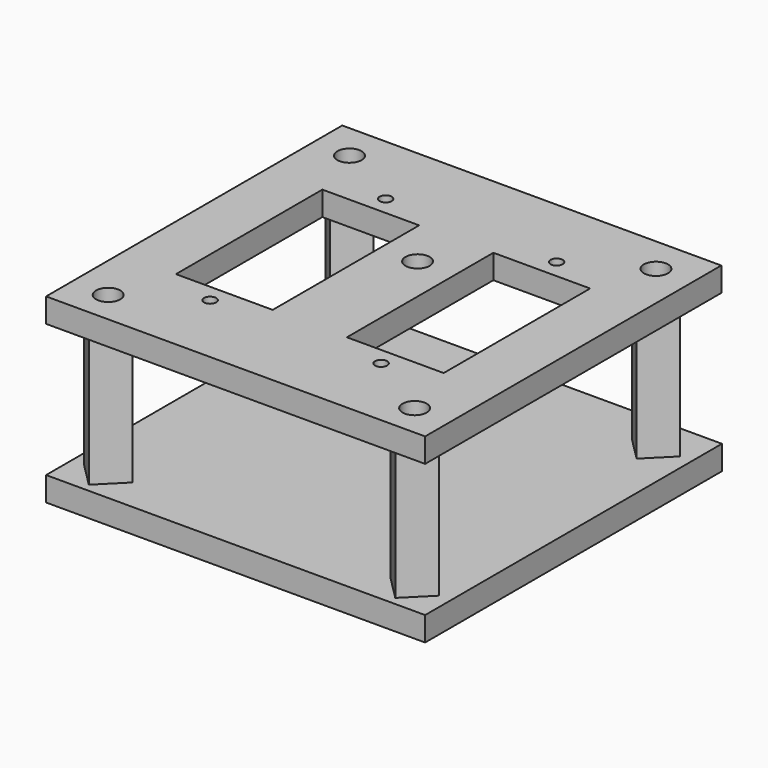
from build123d import *

# Parameters (mm, degrees)
CYLINDER003_R     = 1.5
CYLINDER003_DEPTH = 27
ARRAY002_X_COUNT  = 2
ARRAY002_X_PITCH  = 38
ARRAY002_Y_COUNT  = 2
ARRAY002_Y_PITCH  = 37.4
CYLINDER002_R     = 3
CYLINDER002_DEPTH = 10
PRISM_DEPTH       = 20
ARRAY003_X_COUNT  = 2
ARRAY003_X_PITCH  = 38
ARRAY003_Y_COUNT  = 2
ARRAY003_Y_PITCH  = 37.4
BOX001_W          = 47
BOX001_H          = 46
BOX001_DEPTH      = 3
CYLINDER006_R     = 0.75
CYLINDER006_DEPTH = 10
ARRAY006_X_COUNT  = 2
ARRAY006_X_PITCH  = 21.2
ARRAY006_Y_COUNT  = 2
ARRAY006_Y_PITCH  = 27.2
BOX003_W          = 12
BOX003_H          = 22.7
BOX003_DEPTH      = 10
ARRAY004_X_COUNT  = 2
ARRAY004_X_PITCH  = 21.2
CYLINDER004_R     = 1.5
CYLINDER004_DEPTH = 10
ARRAY005_X_COUNT  = 2
ARRAY005_X_PITCH  = 38
ARRAY005_Y_COUNT  = 2
ARRAY005_Y_PITCH  = 37.4
CYLINDER005_R     = 1.5
CYLINDER005_DEPTH = 10
BOX002_W          = 47
BOX002_H          = 45.9
BOX002_DEPTH      = 3


with BuildPart() as array002:
    # Cylinder003 → Cylinder003 (new body)
    with BuildSketch(Plane(origin=(7.75, 2.5, 0), x_dir=(1, 0, 0), z_dir=(0, 0, 1))):
        Circle(CYLINDER003_R)
    extrude(amount=CYLINDER003_DEPTH)

    # Array002 X: Array002 ×2


with BuildPart() as array002_1:
    add(array002.part)
    with Locations(*[(i * ARRAY002_X_PITCH, 0, 0) for i in range(1, ARRAY002_X_COUNT)]):
        add(array002.part)

    # Array002 Y: Array002 ×2


with BuildPart() as array002_2:
    add(array002_1.part)
    with Locations(*[(0, i * ARRAY002_Y_PITCH, 0) for i in range(1, ARRAY002_Y_COUNT)]):
        add(array002_1.part)


with BuildPart() as fusion002:
    # Cylinder002 → Cylinder002 (new body)
    with BuildSketch(Plane(origin=(26.75, 26.75, 0), x_dir=(1, 0, 0), z_dir=(0, 0, 1))):
        Circle(CYLINDER002_R)
    extrude(amount=CYLINDER002_DEPTH)

    # Fusion002: union Array002
    add(array002_2.part)


with BuildPart() as obj1:
    # Prism → Prism (new body)
    with BuildSketch(Plane(origin=(7.75, 2.5, 3), x_dir=(1, 0, 0), z_dir=(0, 0, 1))):
        Polygon((3, 0), (0, 3), (-3, 0), (0, -3), align=None)
    extrude(amount=PRISM_DEPTH)

    # Array003 X: obj1_2


with BuildPart() as obj1_1:
    add(obj1.part)
    with Locations(*[(i * ARRAY003_X_PITCH, 0, 0) for i in range(1, ARRAY003_X_COUNT)]):
        add(obj1.part)

    # Array003 Y: obj1_2


with BuildPart() as obj1_2:
    add(obj1_1.part)
    with Locations(*[(0, i * ARRAY003_Y_PITCH, 0) for i in range(1, ARRAY003_Y_COUNT)]):
        add(obj1_1.part)


with BuildPart() as top_plate_final:
    # Box001 → Box001 (new body)
    with BuildSketch(Plane(origin=(3.25, -1.5, 3), x_dir=(1, 0, 0), z_dir=(0, 0, 1))):
        with Locations((23.5, 23)):
            Rectangle(BOX001_W, BOX001_H)
    extrude(amount=BOX001_DEPTH)

    # Fusion001: union obj1
    add(obj1_2.part)

    # Cut001: cut Fusion002
    add(fusion002.part, mode=Mode.SUBTRACT)


with BuildPart() as array006:
    # Cylinder006 → Cylinder006 (new body)
    with BuildSketch(Plane(origin=(16.15, 7.8, 19.5), x_dir=(1, 0, 0), z_dir=(0, 0, 1))):
        Circle(CYLINDER006_R)
    extrude(amount=CYLINDER006_DEPTH)

    # Array006 X: Array006 ×2


with BuildPart() as array006_1:
    add(array006.part)
    with Locations(*[(i * ARRAY006_X_PITCH, 0, 0) for i in range(1, ARRAY006_X_COUNT)]):
        add(array006.part)

    # Array006 Y: Array006 ×2


with BuildPart() as array006_2:
    add(array006_1.part)
    with Locations(*[(0, i * ARRAY006_Y_PITCH, 0) for i in range(1, ARRAY006_Y_COUNT)]):
        add(array006_1.part)


with BuildPart() as array_taladro_servomotor:
    # Box003 → Box003 (new body)
    with BuildSketch(Plane(origin=(10.15, 10, 19.5), x_dir=(1, 0, 0), z_dir=(0, 0, 1))):
        with Locations((6, 11.35)):
            Rectangle(BOX003_W, BOX003_H)
    extrude(amount=BOX003_DEPTH)

    # Array004 X: Array taladro servomotor ×2


with BuildPart() as array_taladro_servomotor_1:
    add(array_taladro_servomotor.part)
    with Locations(*[(i * ARRAY004_X_PITCH, 0, 0) for i in range(1, ARRAY004_X_COUNT)]):
        add(array_taladro_servomotor.part)


with BuildPart() as array005:
    # Cylinder004 → Cylinder004 (new body)
    with BuildSketch(Plane(origin=(7.75, 2.5, 19.5), x_dir=(1, 0, 0), z_dir=(0, 0, 1))):
        Circle(CYLINDER004_R)
    extrude(amount=CYLINDER004_DEPTH)

    # Array005 X: Array005 ×2


with BuildPart() as array005_1:
    add(array005.part)
    with Locations(*[(i * ARRAY005_X_PITCH, 0, 0) for i in range(1, ARRAY005_X_COUNT)]):
        add(array005.part)

    # Array005 Y: Array005 ×2


with BuildPart() as array005_2:
    add(array005_1.part)
    with Locations(*[(0, i * ARRAY005_Y_PITCH, 0) for i in range(1, ARRAY005_Y_COUNT)]):
        add(array005_1.part)


with BuildPart() as fusion003:
    # Cylinder005 → Cylinder005 (new body)
    with BuildSketch(Plane(origin=(26.75, 26.7, 19.5), x_dir=(1, 0, 0), z_dir=(0, 0, 1))):
        Circle(CYLINDER005_R)
    extrude(amount=CYLINDER005_DEPTH)

    # Fusion003: union Array006, Array taladro servomotor, Array005
    add(array006_2.part)
    add(array_taladro_servomotor_1.part)
    add(array005_2.part)


with BuildPart() as base_final:
    # Box002 → Box002 (new body)
    with BuildSketch(Plane(origin=(3.25, -1.5, 22.5), x_dir=(1, 0, 0), z_dir=(0, 0, 1))):
        with Locations((23.5, 22.95)):
            Rectangle(BOX002_W, BOX002_H)
    extrude(amount=BOX002_DEPTH)

    # Cut002: cut Fusion003
    add(fusion003.part, mode=Mode.SUBTRACT)


solid = Compound([top_plate_final.part, base_final.part])
